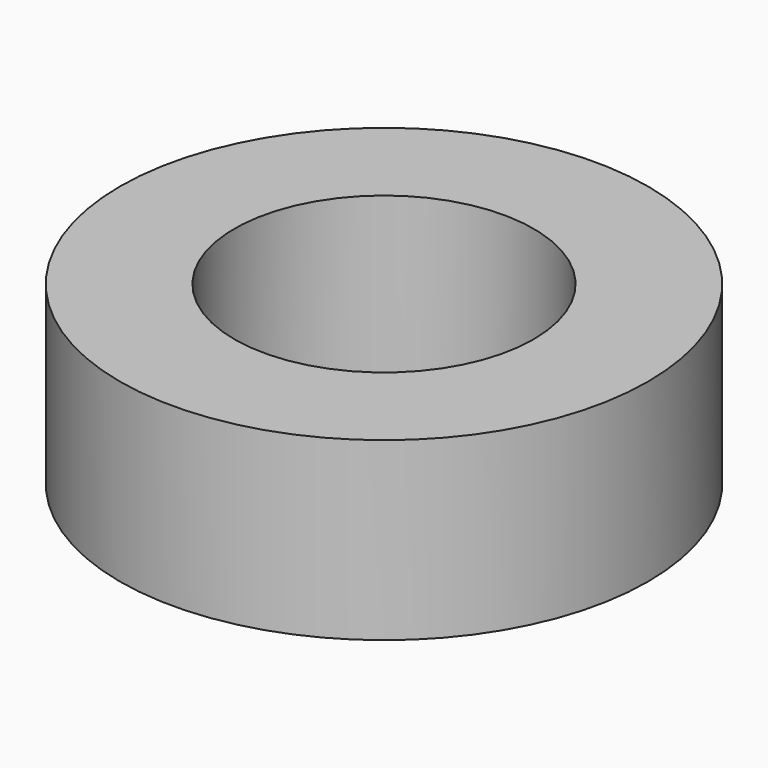
from build123d import *

# Parameters (mm, degrees)
CYLINDER006_R     = 1.7
CYLINDER006_DEPTH = 2
CYLINDER007_R     = 3
CYLINDER007_DEPTH = 2


with BuildPart() as cylinder006:
    # Cylinder006 → Cylinder006 (new body)
    with BuildSketch(Plane(origin=(-32, 0, 0), x_dir=(1, 0, 0), z_dir=(0, 0, 1))):
        Circle(CYLINDER006_R)
    extrude(amount=CYLINDER006_DEPTH)


with BuildPart() as obj1:
    # Cylinder007 → Cylinder007 (new body)
    with BuildSketch(Plane(origin=(-32, 0, 0), x_dir=(1, 0, 0), z_dir=(0, 0, 1))):
        Circle(CYLINDER007_R)
    extrude(amount=CYLINDER007_DEPTH)

    # Cut005: cut Cylinder006
    add(cylinder006.part, mode=Mode.SUBTRACT)


solid = obj1.part
